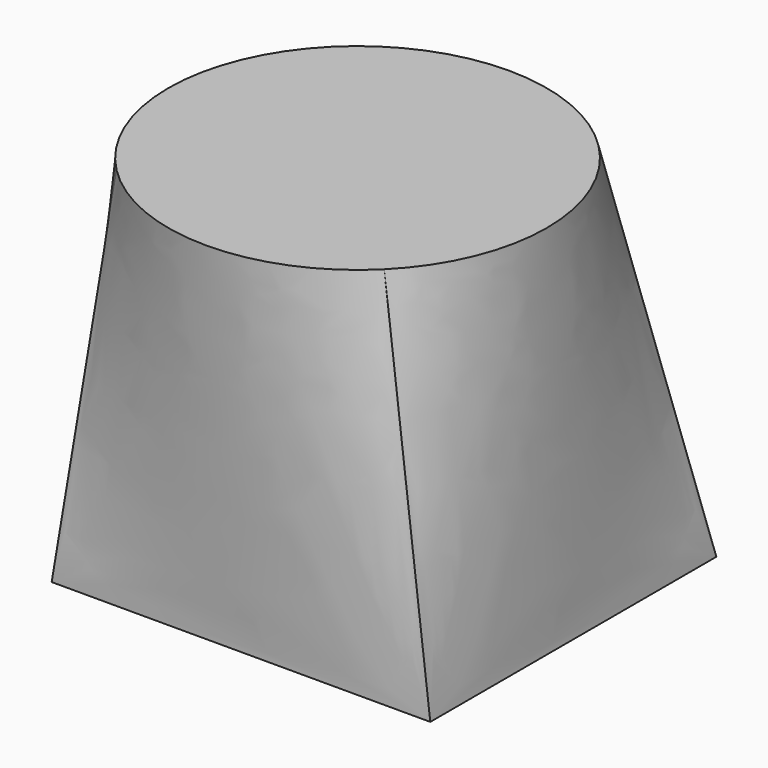
from build123d import *

# Parameters (mm, degrees)
F0_W = 25.2
F0_H = 23.8


with BuildPart() as f3:
    # F2 (on offset) → F3 section 0
    with BuildSketch(Plane.XY.offset(25)):
        with BuildLine():
            ThreePointArc((8.909545443, -11.1095114378), (12.6, -2.1999659948), (8.909545443, 6.7095794481))
            ThreePointArc((8.909545443, 6.7095794481), (0, 10.4000340052), (-8.909545443, 6.7095794481))
            ThreePointArc((-8.909545443, 6.7095794481), (-12.6, -2.1999659948), (-8.909545443, -11.1095114378))
            ThreePointArc((-8.909545443, -11.1095114378), (0, -14.7999659948), (8.909545443, -11.1095114378))
        make_face()
    # F0 (on Top) → F3 section 1
    with BuildSketch(Plane.XY):
        Rectangle(F0_W, F0_H)
    loft()


solid = f3.part
